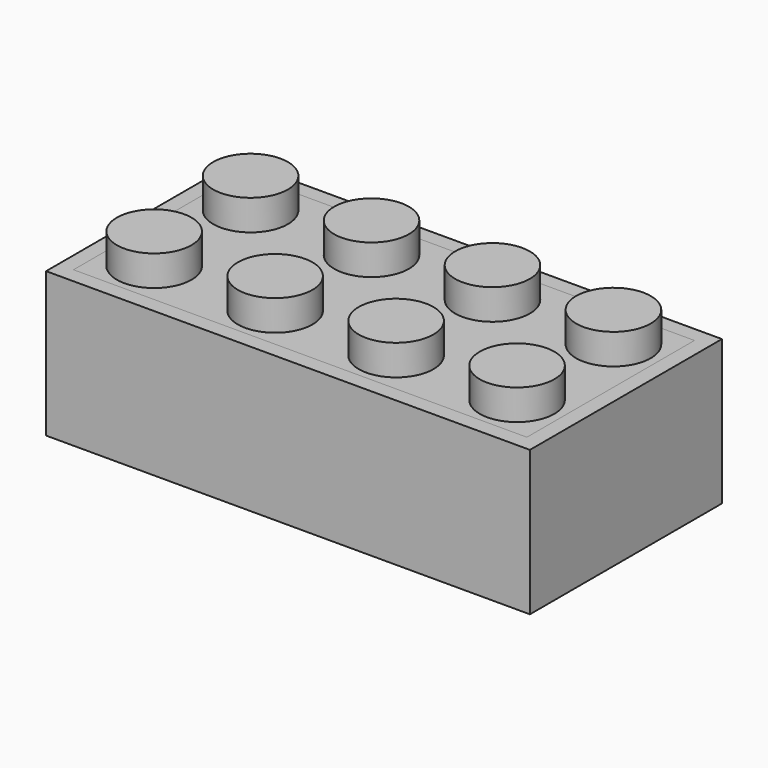
from build123d import *

# Parameters (mm, degrees)
F0_R     = 2.45
F1_DEPTH = 2
F0_W     = 29.75
F0_H     = 13.75
F2_DEPTH = 1
F0_W_2   = 31.75
F0_H_2   = 15.75
F3_DEPTH = 9.5


with BuildPart() as f1:
    # F0 (on Top) → F1 (new body)
    with BuildSketch(Plane.XY):
        with Locations((-11.90625, 3.9375)):
            Circle(F0_R)
        with BuildLine():
            Line((-3.96875, 3.9375), (-1.51875, 3.9375))
            ThreePointArc((-1.51875, 3.9375), (-3.96875, 6.3875), (-6.41875, 3.9375))
            Line((-6.41875, 3.9375), (-3.96875, 3.9375))
        make_face()
        with BuildLine():
            ThreePointArc((-6.41875, 3.9375), (-3.96875, 1.4875), (-1.51875, 3.9375))
            Line((-1.51875, 3.9375), (-3.96875, 3.9375))
            Line((-3.96875, 3.9375), (-6.41875, 3.9375))
        make_face()
        with BuildLine():
            Line((3.96875, 3.9375), (1.51875, 3.9375))
            ThreePointArc((1.51875, 3.9375), (3.96875, 1.4875), (6.41875, 3.9375))
            Line((6.41875, 3.9375), (3.96875, 3.9375))
        make_face()
        with BuildLine():
            ThreePointArc((14.35625, 3.9375), (11.90625, 6.3875), (9.45625, 3.9375))
            ThreePointArc((9.45625, 3.9375), (11.90625, 1.4875), (14.35625, 3.9375))
        make_face()
        with BuildLine():
            ThreePointArc((6.41875, 3.9375), (3.96875, 6.3875), (1.51875, 3.9375))
            Line((1.51875, 3.9375), (3.96875, 3.9375))
            Line((3.96875, 3.9375), (6.41875, 3.9375))
        make_face()
        with Locations((-11.90625, -3.96875)):
            Circle(F0_R)
        with BuildLine():
            Line((-3.96875, -3.96875), (-1.51875, -3.96875))
            ThreePointArc((-1.51875, -3.96875), (-3.96875, -1.51875), (-6.41875, -3.96875))
            Line((-6.41875, -3.96875), (-3.96875, -3.96875))
        make_face()
        with BuildLine():
            ThreePointArc((-6.41875, -3.96875), (-3.96875, -6.41875), (-1.51875, -3.96875))
            Line((-1.51875, -3.96875), (-3.96875, -3.96875))
            Line((-3.96875, -3.96875), (-6.41875, -3.96875))
        make_face()
        with BuildLine():
            Line((3.96875, -3.96875), (1.51875, -3.96875))
            ThreePointArc((1.51875, -3.96875), (3.96875, -6.41875), (6.41875, -3.96875))
            Line((6.41875, -3.96875), (3.96875, -3.96875))
        make_face()
        with BuildLine():
            ThreePointArc((6.41875, -3.96875), (3.96875, -1.51875), (1.51875, -3.96875))
            Line((1.51875, -3.96875), (3.96875, -3.96875))
            Line((3.96875, -3.96875), (6.41875, -3.96875))
        make_face()
        with BuildLine():
            ThreePointArc((14.35625, -3.96875), (11.90625, -1.51875), (9.45625, -3.96875))
            ThreePointArc((9.45625, -3.96875), (11.90625, -6.41875), (14.35625, -3.96875))
        make_face()
    extrude(amount=F1_DEPTH)


with BuildPart() as f2:
    # F0 (on Top) → F2 (new body)
    with BuildSketch(Plane.XY):
        Rectangle(F0_W, F0_H)
        with Locations((-11.90625, -3.96875)):
            Circle(F0_R, mode=Mode.SUBTRACT)
        with BuildLine():
            ThreePointArc((-6.41875, -3.96875), (-3.96875, -1.51875), (-1.51875, -3.96875))
            ThreePointArc((-1.51875, -3.96875), (-3.96875, -6.41875), (-6.41875, -3.96875))
        make_face(mode=Mode.SUBTRACT)
        with BuildLine():
            ThreePointArc((6.41875, -3.96875), (3.96875, -6.41875), (1.51875, -3.96875))
            ThreePointArc((1.51875, -3.96875), (3.96875, -1.51875), (6.41875, -3.96875))
        make_face(mode=Mode.SUBTRACT)
        with BuildLine():
            ThreePointArc((14.35625, -3.96875), (11.90625, -6.41875), (9.45625, -3.96875))
            ThreePointArc((9.45625, -3.96875), (11.90625, -1.51875), (14.35625, -3.96875))
        make_face(mode=Mode.SUBTRACT)
        with Locations((-11.90625, 3.9375)):
            Circle(F0_R, mode=Mode.SUBTRACT)
        with BuildLine():
            ThreePointArc((-6.41875, 3.9375), (-3.96875, 6.3875), (-1.51875, 3.9375))
            ThreePointArc((-1.51875, 3.9375), (-3.96875, 1.4875), (-6.41875, 3.9375))
        make_face(mode=Mode.SUBTRACT)
        with BuildLine():
            ThreePointArc((6.41875, 3.9375), (3.96875, 1.4875), (1.51875, 3.9375))
            ThreePointArc((1.51875, 3.9375), (3.96875, 6.3875), (6.41875, 3.9375))
        make_face(mode=Mode.SUBTRACT)
        with BuildLine():
            ThreePointArc((14.35625, 3.9375), (11.90625, 1.4875), (9.45625, 3.9375))
            ThreePointArc((9.45625, 3.9375), (11.90625, 6.3875), (14.35625, 3.9375))
        make_face(mode=Mode.SUBTRACT)
    extrude(amount=-F2_DEPTH)


with BuildPart() as f3:
    # F0 (on Top) → F3 (new body)
    with BuildSketch(Plane.XY):
        Rectangle(F0_W_2, F0_H_2)
        Rectangle(F0_W, F0_H, mode=Mode.SUBTRACT)
    extrude(amount=-F3_DEPTH)


solid = Compound([f1.part, f2.part, f3.part])
